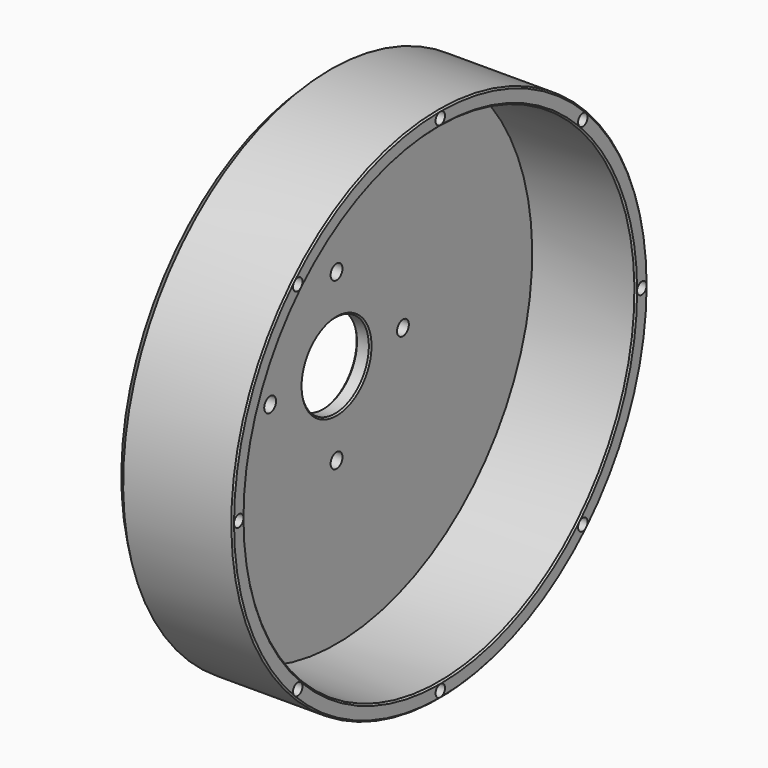
from build123d import *

# Parameters (mm, degrees)
F2_SIZE  = 3
F3_SIZE  = 0.5
F5_D     = 5
F7_D     = 4
F7_DEPTH = 12
F7_TIP   = 1.2017212381


with BuildPart() as f1:
    # F0 (on Front) → F1 (revolve)
    with BuildSketch(Plane.XZ):
        Polygon((0, 87.5), (0, 14.25), (5, 14.25), (5, 82.5), (40, 82.5), (40, 87.5), align=None)
    revolve(axis=Axis((15.7068069821, 0, 0), (1, 0, 0)))

    # F2
    f2_edges = [f1.edges().sort_by_distance(p)[0] for p in [
        (0, 0, -87.5),
    ]]
    chamfer(f2_edges, length=F2_SIZE)

    # F3
    f3_edges = [f1.edges().sort_by_distance(p)[0] for p in [
        (40, 0, -87.5),
        (40, 0, -82.5),
        (5, 0, -14.25),
        (0, 0, -14.25),
    ]]
    chamfer(f3_edges, length=F3_SIZE)

    # F5 (through all)
    with Locations(Plane(origin=(0, 0, 0), x_dir=(0, -1, 0), z_dir=(-1, 0, 0))):
        with Locations((0, 28), (-28, 0), (0, -28), (28, 0)):
            Hole(F5_D / 2)

    # F7
    with Locations(Plane.YZ.offset(40)):
        with Locations((0, 85), (-85, 0), (-60.1040764009, 60.1040764009), (-60.1040764009, -60.1040764009), (0, -85), (60.1040764009, -60.1040764009), (85, 0), (60.1040764009, 60.1040764009)):
            Hole(F7_D / 2, depth=F7_DEPTH)
            with Locations((0, 0, -(F7_DEPTH + F7_TIP / 2))):  # 118° drill point
                Cone(0, F7_D / 2, F7_TIP, mode=Mode.SUBTRACT)


solid = f1.part
